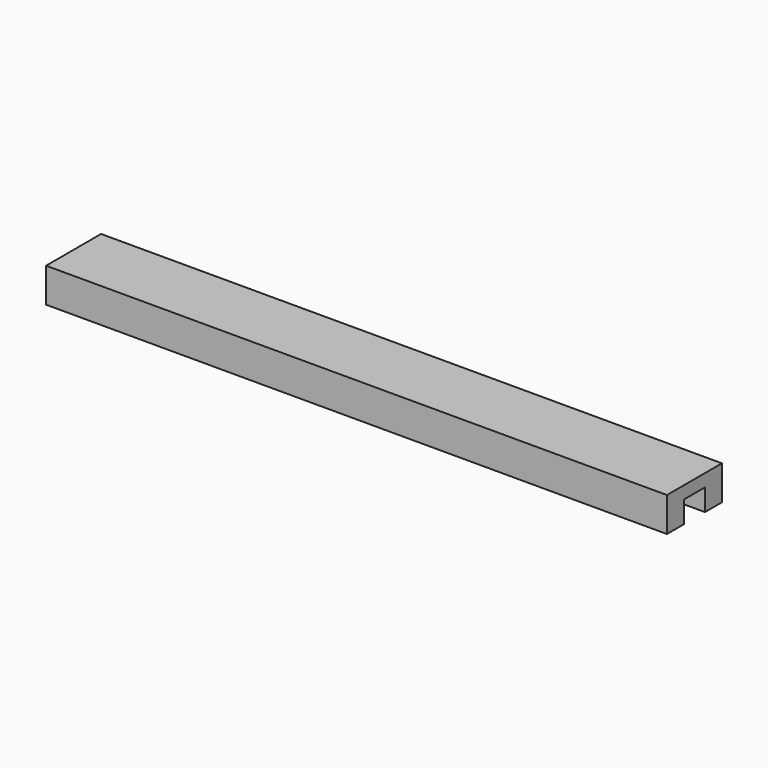
from build123d import *

# Parameters (mm, degrees)
F0_W     = 114.70405
F0_H     = 12.69601
F1_DEPTH = 6.35
F2_W     = 4.867716
F2_H     = 8.060806
F3_DEPTH = 114.70505


with BuildPart() as f1:
    # F0 (on Top) → F1 (new body)
    with BuildSketch(Plane.XY):
        with Locations((57.352025, 6.348005)):
            Rectangle(F0_W, F0_H)
    extrude(amount=F1_DEPTH)

    # F2 (on face) → F3 (cut, through all)
    with BuildSketch(Plane(origin=(0, 0, 0), x_dir=(0, -1, 0), z_dir=(-1, 0, 0))):
        with Locations((-6.348005, 0)):
            Rectangle(F2_W, F2_H)
    extrude(amount=-F3_DEPTH, mode=Mode.SUBTRACT)


solid = f1.part
